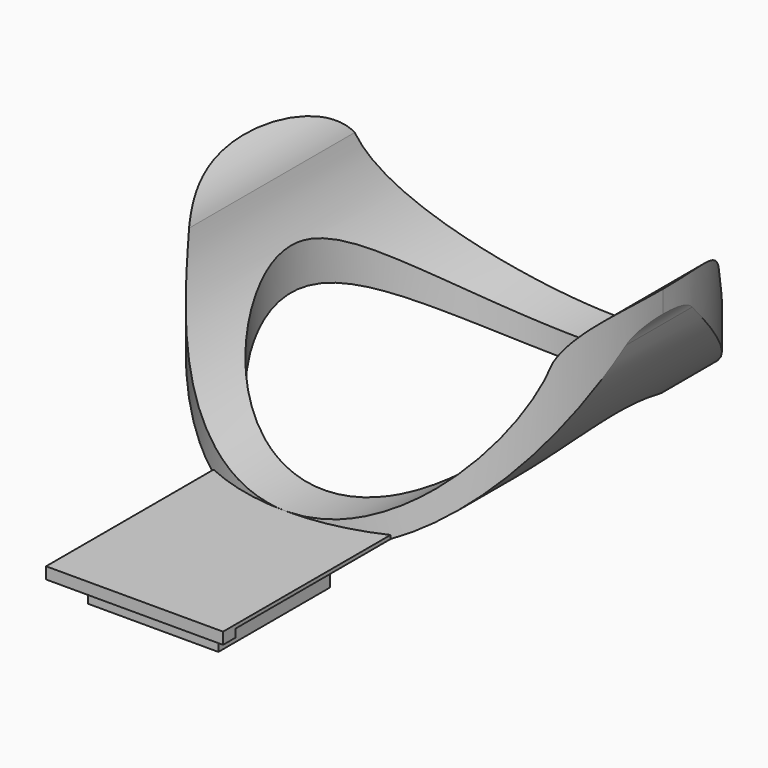
from build123d import *

# Parameters (mm, degrees)
SKETCH_R             = 18
PAD_DEPTH            = 36
SKETCH001_R          = 14
POCKET_DEPTH         = 36.001
SKETCH004_W          = 15.214258
SKETCH004_H          = 18
PAD001_DEPTH         = 1
SKETCH005_W          = 11.214258
SKETCH005_H          = 14
PAD002_DEPTH         = 2
POCKET001_DEPTH      = 33
POCKET002_DEPTH      = 18.001
POCKET002_DEPTH_BACK = -34.31454
SKETCH007_W          = 4
SKETCH007_H          = 2
PAD003_DEPTH         = 1
SKETCH008_W          = 11.214258
SKETCH008_H          = 12
PAD004_DEPTH         = 3


with BuildPart() as part:
    # Sketch → Pad (new body)
    with BuildSketch(Plane.XY):
        Circle(SKETCH_R)
    extrude(amount=PAD_DEPTH)

    # Sketch001 → Pocket (cut, through all)
    with BuildSketch(Plane.XY):
        Circle(SKETCH001_R)
    extrude(amount=POCKET_DEPTH, mode=Mode.SUBTRACT)

    # Sketch004 → Pad001 (join)
    with BuildSketch(Plane.XY.offset(1)):
        with Locations((0, -25.31354)):
            Rectangle(SKETCH004_W, SKETCH004_H)
    extrude(amount=PAD001_DEPTH)

    # Sketch005 → Pad002 (join)
    with BuildSketch(Plane.XY):
        with Locations((0, -25.31354)):
            Rectangle(SKETCH005_W, SKETCH005_H)
    extrude(amount=PAD002_DEPTH)

    # Sketch002 → Pocket001 (cut, symmetric)
    with BuildSketch(Plane.XZ):
        with BuildLine():
            Line((-40, -10), (40, -10))
            Line((40, -10), (40, 18))
            Line((40, 18), (22, 18))
            ThreePointArc((22, 18), (19.18561, 16.995366), (17.643564, 14.435644))
            ThreePointArc((-17.643564, 14.435644), (0, 0), (17.643564, 14.435644))
            ThreePointArc((-17.643564, 14.435644), (-19.18561, 16.995366), (-22, 18))
            Line((-22, 18), (-40, 18))
            Line((-40, 18), (-40, -10))
        make_face()
    extrude(amount=POCKET001_DEPTH, both=True, mode=Mode.SUBTRACT)

    # Sketch003 → Pocket002 (cut, two sides)
    with BuildSketch(Plane.XZ) as pocket002_sk:
        with BuildLine():
            Line((-30, 36), (30, 36))
            Line((30, 36), (30, 18))
            Line((30, 18), (20.4369, 18))
            ThreePointArc((20.4369, 18), (17.514273, 17.079952), (15.645716, 14.651632))
            ThreePointArc((-15.645716, 14.651632), (0, 2), (15.645716, 14.651632))
            ThreePointArc((-15.645716, 14.651632), (-17.514273, 17.079952), (-20.4369, 18))
            Line((-20.4369, 18), (-30, 18))
            Line((-30, 18), (-30, 36))
        make_face()
    extrude(amount=-POCKET002_DEPTH, mode=Mode.SUBTRACT)
    extrude(pocket002_sk.sketch, amount=-POCKET002_DEPTH_BACK, mode=Mode.SUBTRACT)

    # Sketch007 → Pad003 (join, symmetric)
    with BuildSketch(Plane.XY):
        with Locations((0, 16)):
            Rectangle(SKETCH007_W, SKETCH007_H)
    extrude(amount=PAD003_DEPTH, both=True)

    # Sketch008 → Pad004 (join)
    with BuildSketch(Plane.XY.offset(2)):
        with Locations((0, -26.31354)):
            Rectangle(SKETCH008_W, SKETCH008_H)
    extrude(amount=-PAD004_DEPTH)


solid = part.part
